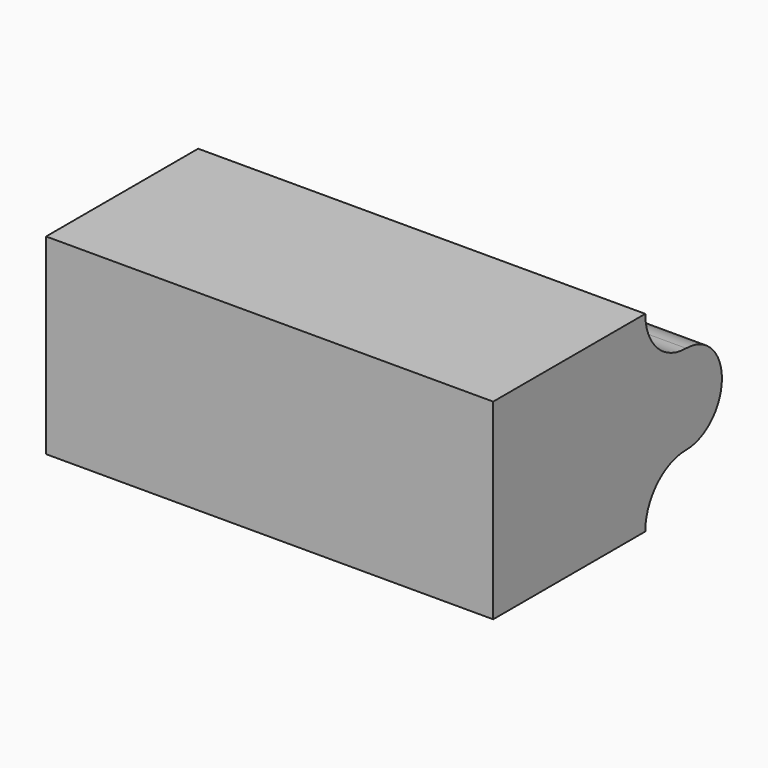
from build123d import *

# Parameters (mm, degrees)
F1_DEPTH = 50


with BuildPart() as f1:
    # F0 (on Right) → F1 (new body, symmetric)
    with BuildSketch(Plane.YZ):
        with BuildLine():
            Line((-11.434759, 21.434759), (-53.954171, 21.434759))
            Line((-53.954171, 21.434759), (-53.954171, -21.434759))
            Line((-53.954171, -21.434759), (-11.434759, -21.434759))
            ThreePointArc((-11.434759, -21.434759), (-8.085596, -13.349163), (0, -10))
            ThreePointArc((0, -10), (10, 0), (0, 10))
            ThreePointArc((0, 10), (-8.085596, 13.349163), (-11.434759, 21.434759))
        make_face()
    extrude(amount=F1_DEPTH, both=True)


solid = f1.part
